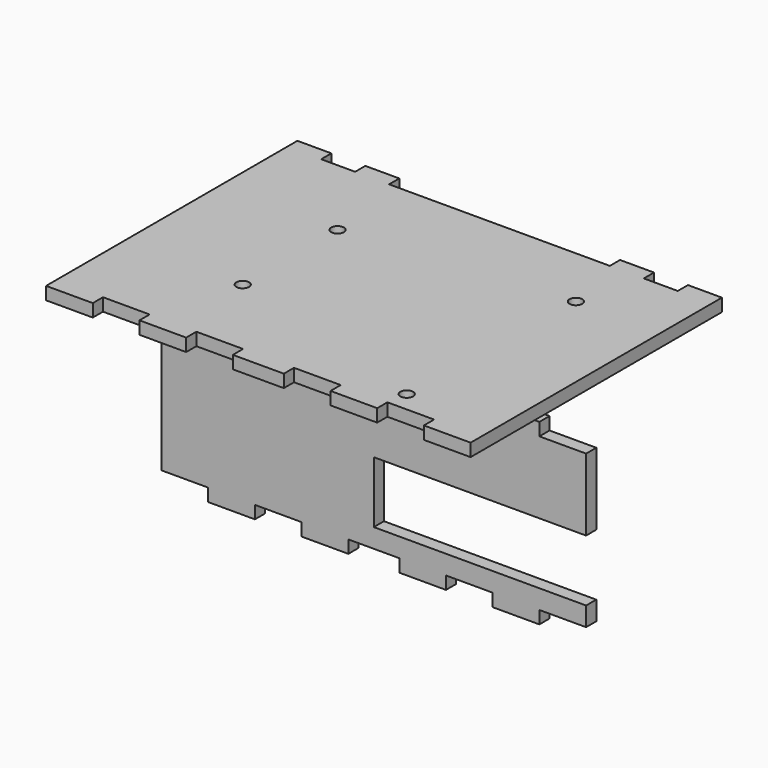
from build123d import *

# Parameters (mm, degrees)
F0_R     = 1.5
F1_DEPTH = 3
F3_DEPTH = 3


with BuildPart() as f1:
    # F0 (on Top) → F1 (new body)
    with BuildSketch(Plane.XY):
        Polygon((39, -37), (50, -37), (50, 37), (42, 37), (42, 34), (34, 34), (34, 37), (26, 37), (26, 34), (-26, 34), (-26, 37), (-34, 37), (-34, 34), (-42, 34), (-42, 37), (-50, 37), (-50, -37), (-39, -37), (-39, -34), (-28, -34), (-28, -37), (-17, -37), (-17, -34), (-6, -34), (-6, -37), (6, -37), (6, -34), (17, -34), (17, -37), (28, -37), (28, -34), (39, -34), align=None)
        with Locations((-22.07, -14.02)):
            Circle(F0_R, mode=Mode.SUBTRACT)
        with Locations((28.73, -29.22)):
            Circle(F0_R, mode=Mode.SUBTRACT)
        with Locations((-22.07, 13.92)):
            Circle(F0_R, mode=Mode.SUBTRACT)
        with Locations((30, 19)):
            Circle(F0_R, mode=Mode.SUBTRACT)
    extrude(amount=F1_DEPTH)


with BuildPart() as f3:
    # F2 (on Front) → F3 (new body)
    with BuildSketch(Plane.XZ):
        Polygon((-39, -49.088816), (-39, -52.088816), (-28, -52.088816), (-28, -49.088816), (-17, -49.088816), (-17, -52.088816), (-6, -52.088816), (-6, -49.088816), (6, -49.088816), (6, -52.088816), (17, -52.088816), (17, -49.088816), (28, -49.088816), (28, -52.088816), (39, -52.088816), (39, -49.088816), (50, -49.088816), (50, -44.588816), (0, -44.588816), (0, -30.088816), (50, -30.088816), (50, -13.088816), (39, -13.088816), (39, -10.088816), (28, -10.088816), (28, -13.088816), (17, -13.088816), (17, -10.088816), (6, -10.088816), (6, -13.088816), (-6, -13.088816), (-6, -10.088816), (-17, -10.088816), (-17, -13.088816), (-28, -13.088816), (-28, -10.088816), (-39, -10.088816), (-39, -13.088816), (-50, -13.088816), (-50, -49.088816), align=None)
    extrude(amount=F3_DEPTH)


solid = Compound([f1.part, f3.part])
